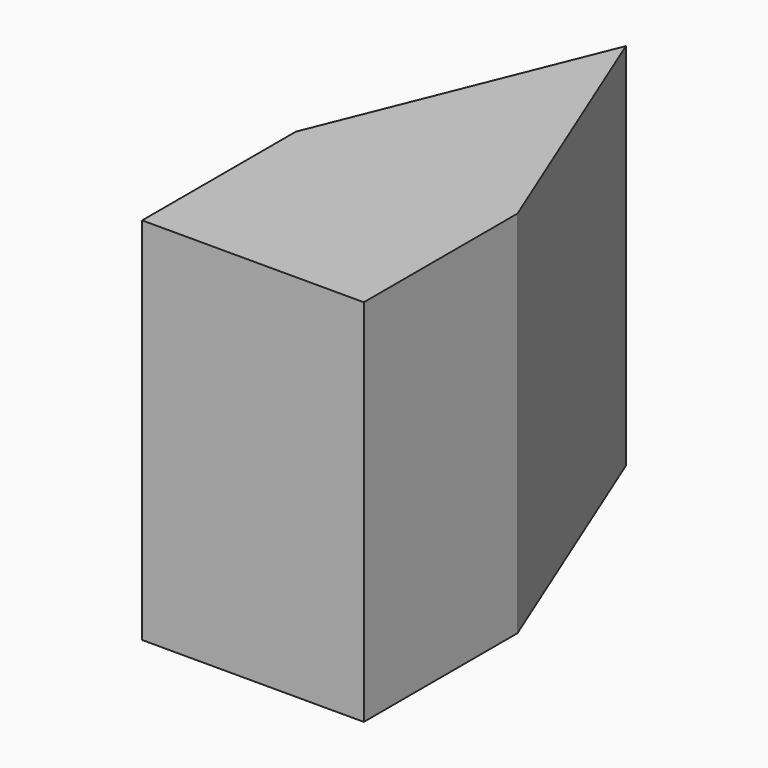
from build123d import *

# Parameters (mm, degrees)
F0_W     = 15
F0_H     = 13
F1_DEPTH = 25


with BuildPart() as f1:
    # F0 (on Top) → F1 (new body)
    with BuildSketch(Plane.XY):
        with Locations((-5.136773, 17.129243)):
            Rectangle(F0_W, F0_H)
        Polygon((-5.136773, 42.169739), (-12.636773, 23.629243), (2.363227, 23.629243), align=None)
    extrude(amount=F1_DEPTH)


solid = f1.part
